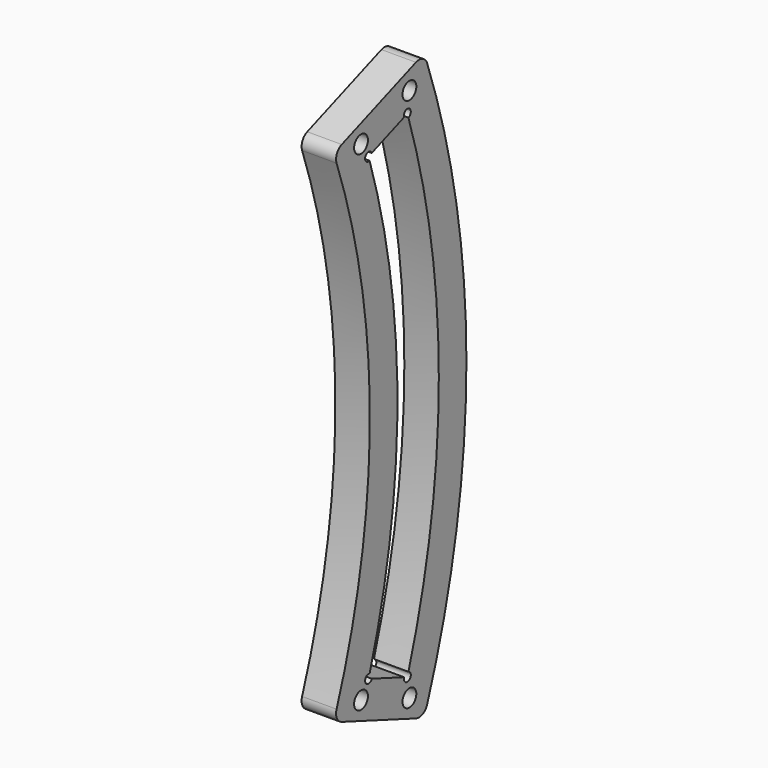
from build123d import *

# Parameters (mm, degrees)
F0_R     = 1.5875
F1_DEPTH = 6.35


with BuildPart() as f1:
    # F0 (on Right) → F1 (new body)
    with BuildSketch(Plane.YZ):
        with BuildLine():
            ThreePointArc((125.293381, 46.797169), (124.179778, 45.767169), (124.109331, 44.251897))
            ThreePointArc((124.109331, 44.251897), (131.7625, 0), (124.109331, -44.251897))
            ThreePointArc((124.109331, -44.251897), (124.179778, -45.767169), (125.293381, -46.797169))
            Line((125.293381, -46.797169), (142.368061, -53.174574))
            ThreePointArc((142.368061, -53.174574), (143.909799, -53.115136), (144.950471, -51.976062))
            ThreePointArc((144.950471, -51.976062), (153.9875, 0), (144.950471, 51.976062))
            ThreePointArc((144.950471, 51.976062), (143.909799, 53.115136), (142.368061, 53.174574))
            Line((142.368061, 53.174574), (125.293381, 46.797169))
        make_face()
        with Locations((129.733229, -45.066222)):
            Circle(F0_R, mode=Mode.SUBTRACT)
        with Locations((140.870361, -49.225949)):
            Circle(F0_R, mode=Mode.SUBTRACT)
        with Locations((129.733229, 45.066222)):
            Circle(F0_R, mode=Mode.SUBTRACT)
        with BuildLine():
            ThreePointArc((131.70849, -41.568454), (138.1125, 0), (131.70849, 41.568454))
            ThreePointArc((131.70849, 41.568454), (130.753509, 42.67166), (132.210994, 42.602436))
            Line((132.210994, 42.602436), (139.655601, 45.383002))
            ThreePointArc((139.655601, 45.383002), (140.745003, 46.375183), (140.642636, 44.905237))
            ThreePointArc((140.642636, 44.905237), (147.6375, 0), (140.642636, -44.905237))
            ThreePointArc((140.642636, -44.905237), (140.745003, -46.375183), (139.655601, -45.383002))
            Line((139.655601, -45.383002), (132.210994, -42.602436))
            ThreePointArc((132.210994, -42.602436), (130.753509, -42.67166), (131.70849, -41.568454))
        make_face(mode=Mode.SUBTRACT)
        with Locations((140.870361, 49.225949)):
            Circle(F0_R, mode=Mode.SUBTRACT)
    extrude(amount=F1_DEPTH)


solid = f1.part
